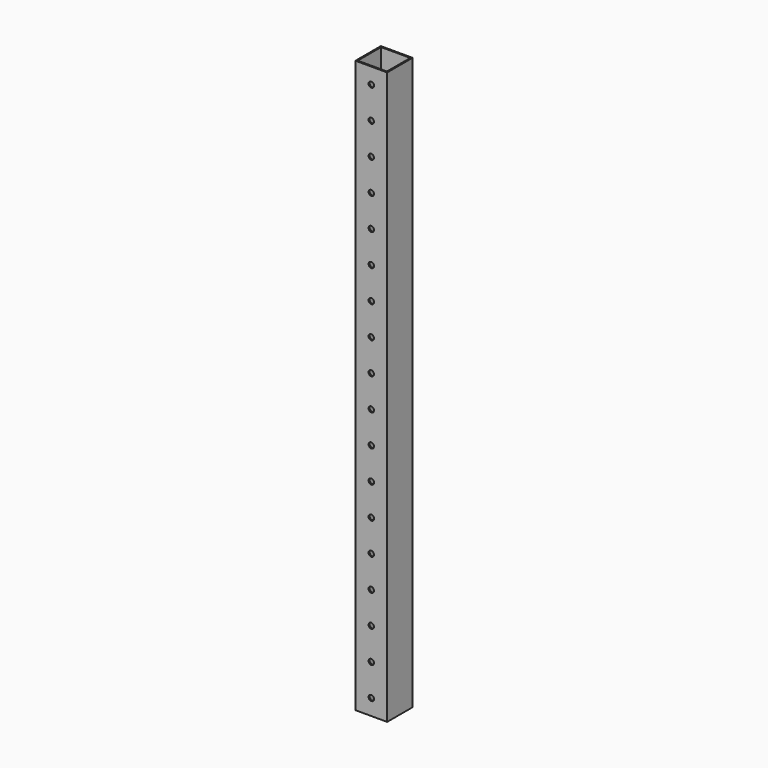
from build123d import *

# Parameters (mm, degrees)
F0_W     = 25.4
F0_H     = 25.4
F0_W_2   = 23.368
F0_H_2   = 23.368
F1_DEPTH = 457.2
F2_R     = 2.1844
F3_DEPTH = 25.4


with BuildPart() as f1:
    # F0 (on Top) → F1 (new body)
    with BuildSketch(Plane.XY):
        with Locations((12.7, -12.7)):
            Rectangle(F0_W, F0_H)
        with Locations((12.7, -12.7)):
            Rectangle(F0_W_2, F0_H_2, mode=Mode.SUBTRACT)
    extrude(amount=F1_DEPTH)

    # F2 (on face) → F3 (cut)
    with BuildSketch(Plane.XZ.offset(25.4)):
        with Locations((12.7, 12.7)):
            Circle(F2_R)
        with Locations((12.7, 38.1)):
            Circle(F2_R)
        with Locations((12.7, 241.3)):
            Circle(F2_R)
        with Locations((12.7, 215.9)):
            Circle(F2_R)
        with Locations((12.7, 190.5)):
            Circle(F2_R)
        with Locations((12.7, 165.1)):
            Circle(F2_R)
        with Locations((12.7, 139.7)):
            Circle(F2_R)
        with Locations((12.7, 114.3)):
            Circle(F2_R)
        with Locations((12.7, 88.9)):
            Circle(F2_R)
        with Locations((12.7, 63.5)):
            Circle(F2_R)
        with Locations((12.7, 266.7)):
            Circle(F2_R)
        with Locations((12.7, 292.1)):
            Circle(F2_R)
        with Locations((12.7, 317.5)):
            Circle(F2_R)
        with Locations((12.7, 342.9)):
            Circle(F2_R)
        with Locations((12.7, 368.3)):
            Circle(F2_R)
        with Locations((12.7, 393.7)):
            Circle(F2_R)
        with Locations((12.7, 419.1)):
            Circle(F2_R)
        with Locations((12.7, 444.5)):
            Circle(F2_R)
        with Locations((12.7, 469.9)):
            Circle(F2_R)
        with Locations((12.7, 495.3)):
            Circle(F2_R)
        with Locations((12.7, 520.7)):
            Circle(F2_R)
        with Locations((12.7, 546.1)):
            Circle(F2_R)
        with Locations((12.7, 571.5)):
            Circle(F2_R)
        with Locations((12.7, 596.9)):
            Circle(F2_R)
        with Locations((12.7, 622.3)):
            Circle(F2_R)
    extrude(amount=-F3_DEPTH, mode=Mode.SUBTRACT)


solid = f1.part
